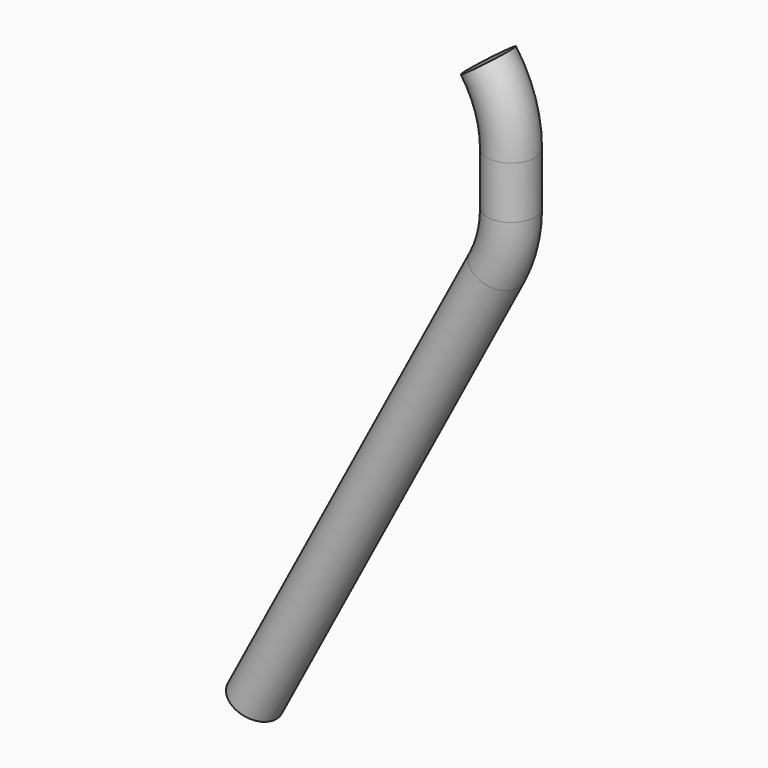
from build123d import *

# Parameters (mm, degrees)
F4_R = 2


with BuildPart() as f5:
    # F5: sweep along a path in F0
    with BuildLine(Plane.XZ) as f5_path:
        ThreePointArc((19.2704998709, -232.1059615468), (20.6601479123, -234.8697369649), (21.1386267244, -237.9259820904))
        Line((21.1386267244, -237.9259820904), (21.1386267244, -242.2355183795))
        ThreePointArc((21.1386267244, -242.2355183795), (20.8446392137, -244.6424503595), (19.9799624131, -246.9078607513))
        Line((19.9799624131, -246.9078607513), (0, -284.7153544426))
    # F4 (on line) → F5 (sweep)
    with BuildSketch(Plane(origin=(116.3777675582, 0, -162.6058251468), x_dir=(0.8131873147, 0, 0.5820020544), z_dir=(-0.5820020544, 0, 0.8131873147))):
        with Locations((-119.4156204075, 0)):
            Circle(F4_R)
    sweep(path=f5_path.line)


solid = f5.part
